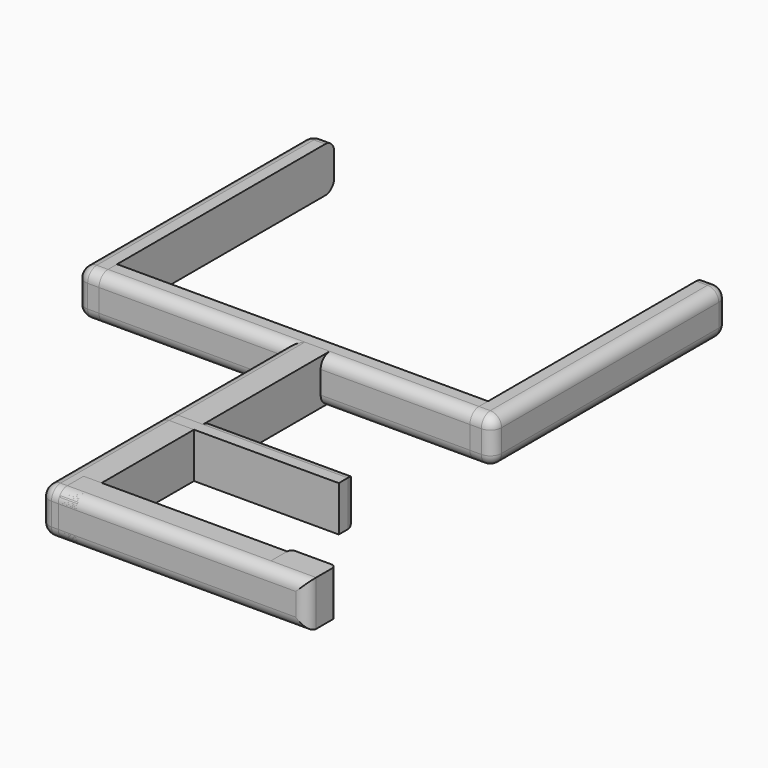
from build123d import *

# Parameters (mm, degrees)
BOX005_W     = 5
BOX005_H     = 65
BOX005_DEPTH = 10
FILLET_R     = 2.5
FILLET003_R  = 2.5
FILLET004_R  = 2.5
BOX_W        = 82
BOX_H        = 5
BOX_DEPTH    = 10
FILLET005_R  = 2.5
BOX006_W     = 5
BOX006_H     = 65
BOX006_DEPTH = 10
FILLET002_R  = 2.5
FILLET006_R  = 2.5
FILLET007_R  = 2.5
BOX001_W     = 8
BOX001_H     = 70
BOX001_DEPTH = 10
FILLET001_R  = 2.5
FILLET008_R  = 2.5
BOX002_W     = 40
BOX002_H     = 5
BOX002_DEPTH = 10
FILLET009_R  = 2.5
FILLET010_R  = 2.5
BOX003_W     = 55
BOX003_H     = 7
BOX003_DEPTH = 10
FILLET011_R  = 2.5
BOX004_W     = 10
BOX004_H     = 5.5
BOX004_DEPTH = 10
FILLET012_R  = 1
FILLET013_R  = 1


with BuildPart() as fillet004:
    # Box005 → Box005 (new body)
    with BuildSketch(Plane(origin=(-5, 35, 0), x_dir=(1, 0, 0), z_dir=(0, 0, 1))):
        with Locations((2.5, 32.5)):
            Rectangle(BOX005_W, BOX005_H)
    extrude(amount=BOX005_DEPTH)

    # Fillet
    fillet_edges = [fillet004.edges().sort_by_distance(p)[0] for p in [
        (-5, 35, 5),
    ]]
    fillet(fillet_edges, radius=FILLET_R)

    # Fillet003
    fillet003_edges = [fillet004.edges().sort_by_distance(p)[0] for p in [
        (-5, 100, 5),
    ]]
    fillet(fillet003_edges, radius=FILLET003_R)

    # Fillet004
    fillet004_edges = [fillet004.edges().sort_by_distance(p)[0] for p in [
        (-5, 67.5, 10),
        (-5, 67.5, 0),
    ]]
    fillet(fillet004_edges, radius=FILLET004_R)


with BuildPart() as fillet005:
    # Box → Box (new body)
    with BuildSketch(Plane(origin=(0, 35, 0), x_dir=(1, 0, 0), z_dir=(0, 0, 1))):
        with Locations((41, 2.5)):
            Rectangle(BOX_W, BOX_H)
    extrude(amount=BOX_DEPTH)

    # Fillet005
    fillet005_edges = [fillet005.edges().sort_by_distance(p)[0] for p in [
        (41, 35, 0),
        (41, 35, 10),
    ]]
    fillet(fillet005_edges, radius=FILLET005_R)


with BuildPart() as fillet007:
    # Box006 → Box006 (new body)
    with BuildSketch(Plane(origin=(82, 35, 0), x_dir=(1, 0, 0), z_dir=(0, 0, 1))):
        with Locations((2.5, 32.5)):
            Rectangle(BOX006_W, BOX006_H)
    extrude(amount=BOX006_DEPTH)

    # Fillet002
    fillet002_edges = [fillet007.edges().sort_by_distance(p)[0] for p in [
        (87, 100, 5),
    ]]
    fillet(fillet002_edges, radius=FILLET002_R)

    # Fillet006
    fillet006_edges = [fillet007.edges().sort_by_distance(p)[0] for p in [
        (84.5, 35, 10),
        (84.5, 35, 0),
    ]]
    fillet(fillet006_edges, radius=FILLET006_R)

    # Fillet007
    fillet007_edges = [fillet007.edges().sort_by_distance(p)[0] for p in [
        (87, 67.5, 10),
        (87, 67.5, 0),
    ]]
    fillet(fillet007_edges, radius=FILLET007_R)


with BuildPart() as fillet008:
    # Box001 → Box001 (new body)
    with BuildSketch(Plane(origin=(41, -32.5, 0), x_dir=(1, 0, 0), z_dir=(0, 0, 1))):
        with Locations((4, 35)):
            Rectangle(BOX001_W, BOX001_H)
    extrude(amount=BOX001_DEPTH)

    # Fillet001
    fillet001_edges = [fillet008.edges().sort_by_distance(p)[0] for p in [
        (41, -32.5, 5),
    ]]
    fillet(fillet001_edges, radius=FILLET001_R)

    # Fillet008
    fillet008_edges = [fillet008.edges().sort_by_distance(p)[0] for p in [
        (41, 3.75, 10),
        (41, 3.75, 0),
    ]]
    fillet(fillet008_edges, radius=FILLET008_R)


with BuildPart() as fillet010:
    # Box002 → Box002 (new body)
    with BuildSketch(Plane(origin=(41, 0, 0), x_dir=(1, 0, 0), z_dir=(0, 0, 1))):
        with Locations((20, 2.5)):
            Rectangle(BOX002_W, BOX002_H)
    extrude(amount=BOX002_DEPTH)

    # Fillet009
    fillet009_edges = [fillet010.edges().sort_by_distance(p)[0] for p in [
        (41, 2.5, 10),
        (41, 2.5, 0),
    ]]
    fillet(fillet009_edges, radius=FILLET009_R)

    # Fillet010
    fillet010_edges = [fillet010.edges().sort_by_distance(p)[0] for p in [
        (62.25, 5, 0),
        (62.25, 5, 10),
        (81, 5, 5),
    ]]
    fillet(fillet010_edges, radius=FILLET010_R)


with BuildPart() as fillet011:
    # Box003 → Box003 (new body)
    with BuildSketch(Plane(origin=(45, -32.5, 0), x_dir=(1, 0, 0), z_dir=(0, 0, 1))):
        with Locations((27.5, 3.5)):
            Rectangle(BOX003_W, BOX003_H)
    extrude(amount=BOX003_DEPTH)

    # Fillet011
    fillet011_edges = [fillet011.edges().sort_by_distance(p)[0] for p in [
        (100, -32.5, 5),
        (72.5, -32.5, 0),
        (72.5, -32.5, 10),
    ]]
    fillet(fillet011_edges, radius=FILLET011_R)


with BuildPart() as fillet013:
    # Box004 → Box004 (new body)
    with BuildSketch(Plane(origin=(90, -30, 0), x_dir=(1, 0, 0), z_dir=(0, 0, 1))):
        with Locations((5, 2.75)):
            Rectangle(BOX004_W, BOX004_H)
    extrude(amount=BOX004_DEPTH)

    # Fillet012
    fillet012_edges = [fillet013.edges().sort_by_distance(p)[0] for p in [
        (100, -24.5, 5),
    ]]
    fillet(fillet012_edges, radius=FILLET012_R)

    # Fillet013
    fillet013_edges = [fillet013.edges().sort_by_distance(p)[0] for p in [
        (90, -24.5, 5),
    ]]
    fillet(fillet013_edges, radius=FILLET013_R)


solid = Compound([fillet004.part, fillet005.part, fillet007.part, fillet008.part, fillet010.part, fillet011.part, fillet013.part])
